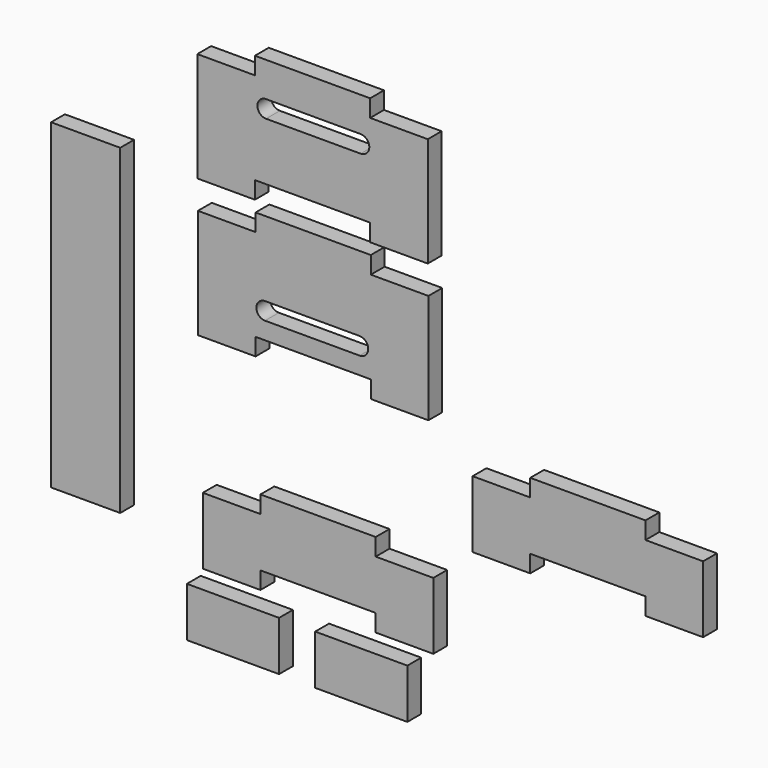
from build123d import *

# Parameters (mm, degrees)
F0_W     = 76.2
F0_H     = 354.33
F1_DEPTH = 19.05
F0_W_2   = 101.6
F0_H_2   = 54.61
F2_DEPTH = 19.05


with BuildPart() as f1:
    # F0 (on Front) → F1 (new body)
    with BuildSketch(Plane.XZ):
        with Locations((-180.422981, 88.792352)):
            Rectangle(F0_W, F0_H)
    extrude(amount=F1_DEPTH)


with BuildPart() as f2:
    # F0 (on Front) → F2 (new body)
    with BuildSketch(Plane.XZ):
        Polygon((196.613275, 263.85193), (196.613275, 384.50193), (133.113275, 384.50193), (133.113275, 403.55193), (6.113275, 403.55193), (6.113275, 384.50193), (-57.386725, 384.50193), (-57.386725, 263.85193), (6.113275, 263.85193), (6.113275, 282.90193), (133.113275, 282.90193), (133.113275, 263.85193), align=None)
        with BuildLine():
            ThreePointArc((18.40325, 346.40193), (8.87825, 355.92693), (18.40325, 365.45193))
            Line((18.40325, 365.45193), (122.646435, 365.45193))
            ThreePointArc((122.646435, 365.45193), (132.171435, 355.92693), (122.646435, 346.40193))
            Line((122.646435, 346.40193), (18.40325, 346.40193))
        make_face(mode=Mode.SUBTRACT)
        Polygon((197.31865, 112.024289), (197.31865, 232.674289), (133.81865, 232.674289), (133.81865, 251.724289), (6.81865, 251.724289), (6.81865, 232.674289), (-56.68135, 232.674289), (-56.68135, 112.024289), (6.81865, 112.024289), (6.81865, 131.074289), (133.81865, 131.074289), (133.81865, 112.024289), align=None)
        with BuildLine():
            ThreePointArc((17.245385, 150.124289), (7.720385, 159.649289), (17.245385, 169.174289))
            Line((17.245385, 169.174289), (121.48857, 169.174289))
            ThreePointArc((121.48857, 169.174289), (131.01357, 159.649289), (121.48857, 150.124289))
            Line((121.48857, 150.124289), (17.245385, 150.124289))
        make_face(mode=Mode.SUBTRACT)
        Polygon((500.026173, 0), (500.026173, 73.66), (436.526173, 73.66), (436.526173, 92.71), (309.526173, 92.71), (309.526173, 73.66), (246.026173, 73.66), (246.026173, 0), (309.526173, 0), (309.526173, 19.05), (436.526173, 19.05), (436.526173, 0), align=None)
        Polygon((202.706903, -112.7891), (202.706903, -39.1291), (139.206903, -39.1291), (139.206903, -20.0791), (12.206903, -20.0791), (12.206903, -39.1291), (-51.293097, -39.1291), (-51.293097, -112.7891), (12.206903, -112.7891), (12.206903, -93.7391), (139.206903, -93.7391), (139.206903, -112.7891), align=None)
        with Locations((123.333705, -160.82134)):
            Rectangle(F0_W_2, F0_H_2)
        with Locations((-18.065077, -160.46094)):
            Rectangle(F0_W_2, F0_H_2)
    extrude(amount=F2_DEPTH)


solid = Compound([f1.part, f2.part])
